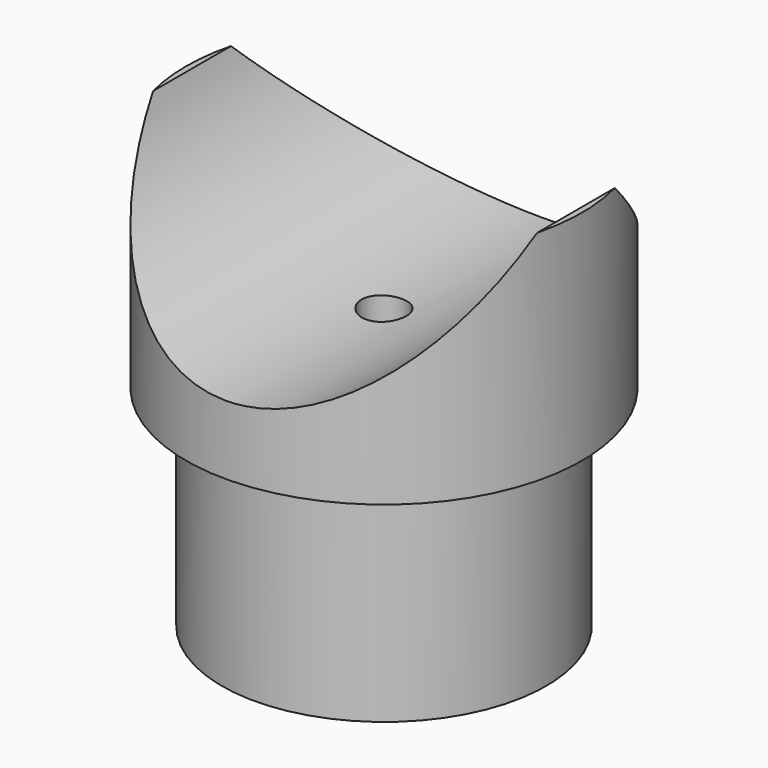
from build123d import *

# Parameters (mm, degrees)
F2_R          = 2.38125
F3_DEPTH      = 45.594
F4_R          = 21.082
F5_DEPTH      = 21.083
F5_DEPTH_BACK = 21.083


with BuildPart() as f1:
    # F0 (on Front) → F1 (revolve)
    with BuildSketch(Plane.XZ):
        Polygon((-17.272, 0), (0, 0), (0, 45.593), (-21.082, 45.593), (-21.082, 22.352), (-17.272, 22.352), align=None)
    revolve(axis=Axis((0, 0, 22.7965), (0, 0, -1)))

    # F2 (on face) → F3 (cut, through all)
    with BuildSketch(Plane(origin=(0, 0, 0), x_dir=(1, 0, 0), z_dir=(0, 0, -1))):
        Circle(F2_R)
    extrude(amount=-F3_DEPTH, mode=Mode.SUBTRACT)

    # F4 (on Front) → F5 (cut, two sides)
    with BuildSketch(Plane.XZ) as f5_sk:
        with Locations((0, 50.7746)):
            Circle(F4_R)
    extrude(amount=-F5_DEPTH, mode=Mode.SUBTRACT)
    extrude(f5_sk.sketch, amount=F5_DEPTH_BACK, mode=Mode.SUBTRACT)


solid = f1.part
